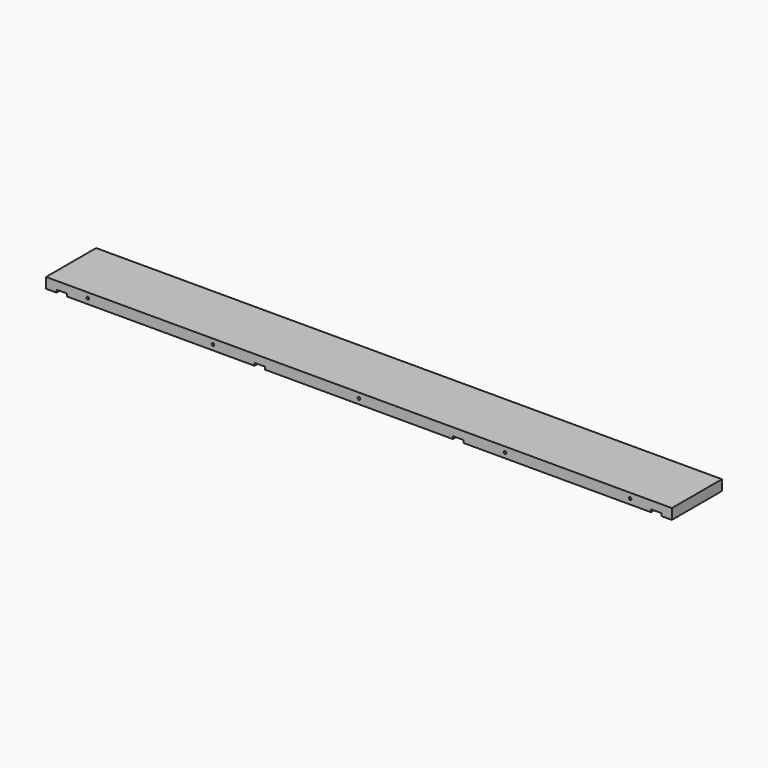
from build123d import *

# Parameters (mm, degrees)
F0_W     = 1524
F0_H     = 152.4
F1_DEPTH = 25.4
F2_W     = 25.4
F2_H     = 215.900069
F3_DEPTH = 6.35
F4_R     = 3.175
F5_DEPTH = 25.4


with BuildPart() as f1:
    # F0 (on Top) → F1 (new body)
    with BuildSketch(Plane.XY):
        with Locations((762, 76.2)):
            Rectangle(F0_W, F0_H)
    extrude(amount=F1_DEPTH)

    # F2 (on Top) → F3 (cut)
    with BuildSketch(Plane.XY):
        with Locations((38.1, 77.015946)):
            Rectangle(F2_W, F2_H)
        with Locations((520.7, 77.015946)):
            Rectangle(F2_W, F2_H)
        with Locations((1003.3, 77.015946)):
            Rectangle(F2_W, F2_H)
        with Locations((1485.9, 77.015946)):
            Rectangle(F2_W, F2_H)
    extrude(amount=F3_DEPTH, mode=Mode.SUBTRACT)

    # F4 (on Front) → F5 (cut)
    with BuildSketch(Plane.XZ):
        with Locations((101.6, 12.7)):
            Circle(F4_R)
        with Locations((406.4, 12.7)):
            Circle(F4_R)
        with Locations((762, 12.7)):
            Circle(F4_R)
        with Locations((1117.6, 12.7)):
            Circle(F4_R)
        with Locations((1422.4, 12.7)):
            Circle(F4_R)
    extrude(amount=-F5_DEPTH, mode=Mode.SUBTRACT)


solid = f1.part
